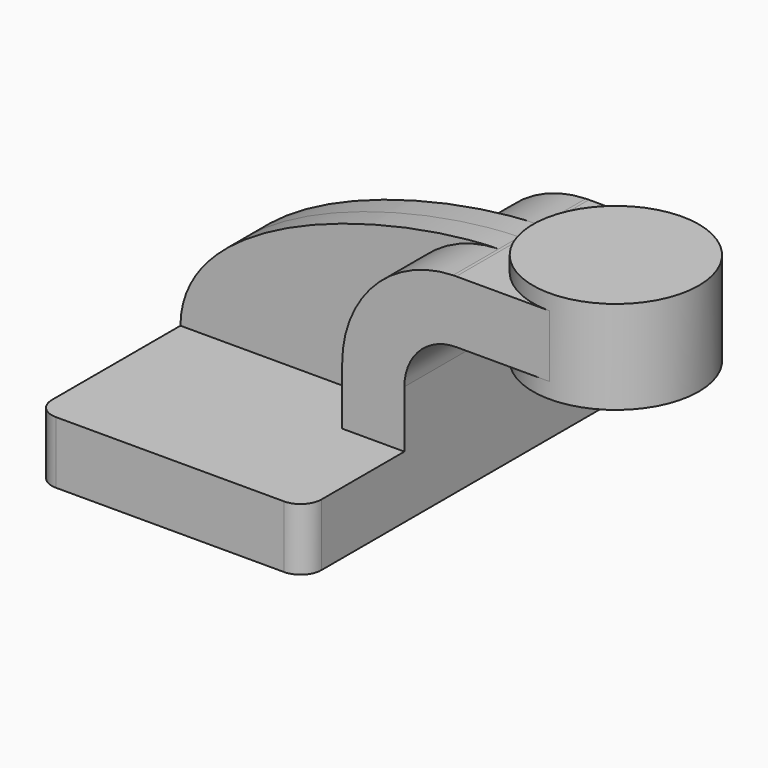
from build123d import *

# Parameters (mm, degrees)
F0_W     = 25.4
F0_H     = 19.0500000358
F1_DEPTH = 25.4
F2_DEPTH = 63.5
F3_DEPTH = 7.9375
F4_R     = 6.35


with BuildPart() as f1:
    # F0 (on Front) → F1 (new body, symmetric)
    with BuildSketch(Plane.XZ):
        with BuildLine():
            Line((22.2249999642, 9.525), (41.275, 9.525))
            Line((41.275, 9.525), (41.275, 27.0002))
            ThreePointArc((41.275, 27.0002), (45.9246798487, 38.2255201513), (57.15, 42.8752))
            Line((57.15, 42.8752), (60.325, 42.8752))
            Line((60.325, 42.8752), (60.325, 61.9252000358))
            Line((60.325, 61.9252000358), (57.15, 61.9252000358))
            add(Edge.make_bspline(
                [(56.1881641645, 61.9119530256), (56.5114193226, 61.9179643353), (56.8320574496, 61.9223807727), (57.15, 61.9252000358)],
                knots=[110.4568583341, 110.4568583341, 110.4568583341, 110.4568583341, 111.5045361803, 111.5045361803, 111.5045361803, 111.5045361803], degree=3))
            ThreePointArc((56.1881641645, 61.9119530256), (32.1165449439, 51.353469913), (22.2249999642, 27.0002))
            Line((22.2249999642, 27.0002), (22.2249999642, 9.525))
        make_face()
        with Locations((73.025, 52.4002000179)):
            Rectangle(F0_W, F0_H)
    extrude(amount=F1_DEPTH, both=True)

    # F0 (on Front) → F2 (join, symmetric)
    with BuildSketch(Plane.XZ):
        Polygon((-41.275, 9.525), (-41.275, -9.525), (41.275, -9.525), (41.275, 9.525), (22.2249999642, 9.525), align=None)
    extrude(amount=F2_DEPTH, both=True)

    # F0 (on Front) → F3 (join, symmetric)
    with BuildSketch(Plane.XZ):
        with BuildLine():
            add(Edge.make_bspline(
                [(-41.275, 9.525), (-41.0631979576, 42.9165692046), (22.1073163765, 61.2781795997), (56.1881641645, 61.9119530256)],
                knots=[0, 0, 0, 0, 110.4568583341, 110.4568583341, 110.4568583341, 110.4568583341], degree=3))
            Line((-41.275, 9.525), (22.2249999642, 9.525))
            Line((22.2249999642, 9.525), (22.2249999642, 27.0002))
            ThreePointArc((22.2249999642, 27.0002), (32.1165449439, 51.353469913), (56.1881641645, 61.9119530256))
        make_face()
    extrude(amount=F3_DEPTH, both=True)

    # F4
    f4_edges = [f1.edges().sort_by_distance(p)[0] for p in [
        (-41.275, -63.5, 0),
        (41.275, -63.5, 0),
        (41.275, 63.5, 0),
        (-41.275, 63.5, 0),
    ]]
    fillet(f4_edges, radius=F4_R)


with BuildPart() as f5:
    # F0 (on Front) → F5 (revolve)
    with BuildSketch(Plane.XZ):
        Polygon((85.725, 66.675), (85.725, 61.9252000358), (85.725, 42.8752), (85.725, 38.1), (111.125, 38.1), (111.125, 66.675), align=None)
    revolve(axis=Axis((85.725, 0, 52.3875), (0, 0, 1)))


solid = Compound([f1.part, f5.part])
